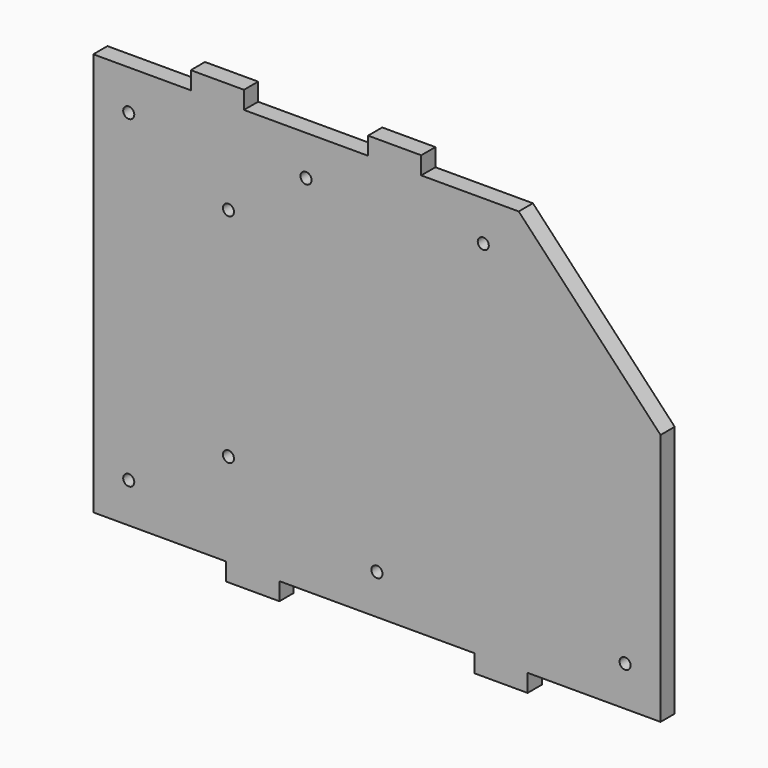
from build123d import *

# Parameters (mm, degrees)
F0_W     = 38.1
F0_H     = 12.7
F1_DEPTH = 12.7
F2_D     = 7.9375
F2_DEPTH = 20.6629
F2_TIP   = 2.3846655818
F3_D     = 7.9375
F3_DEPTH = 17.5133
F3_TIP   = 2.3846655818


with BuildPart() as f1:
    # F0 (on Front) → F1 (new body)
    with BuildSketch(Plane.XZ):
        Polygon((0, 288.925), (0, 0), (95.25, 0), (95.25, 12.7), (133.35, 12.7), (133.35, 0), (273.05, 0), (273.05, 12.7), (311.15, 12.7), (311.15, 0), (406.4, 0), (406.4, 180.975), (304.8, 288.925), (234.95, 288.925), (234.95, 276.225), (196.85, 276.225), (196.85, 288.925), (107.95, 288.925), (107.95, 276.225), (69.85, 276.225), (69.85, 288.925), align=None)
        with Locations((114.3, 6.35)):
            Rectangle(F0_W, F0_H)
        with Locations((114.3, -6.35)):
            Rectangle(F0_W, F0_H)
        with Locations((88.9, 295.275)):
            Rectangle(F0_W, F0_H)
        with Locations((88.9, 282.575)):
            Rectangle(F0_W, F0_H)
        with Locations((292.1, 6.35)):
            Rectangle(F0_W, F0_H)
        with Locations((292.1, -6.35)):
            Rectangle(F0_W, F0_H)
        with Locations((215.9, 295.275)):
            Rectangle(F0_W, F0_H)
        with Locations((215.9, 282.575)):
            Rectangle(F0_W, F0_H)
        Polygon((0, 288.925), (0, 0), (95.25, 0), (95.25, 12.7), (133.35, 12.7), (133.35, 0), (273.05, 0), (273.05, 12.7), (311.15, 12.7), (311.15, 0), (406.4, 0), (406.4, 180.975), (304.8, 288.925), (234.95, 288.925), (234.95, 276.225), (196.85, 276.225), (196.85, 288.925), (107.95, 288.925), (107.95, 276.225), (69.85, 276.225), (69.85, 288.925), align=None)
    extrude(amount=F1_DEPTH)

    # F2
    with Locations(Plane(origin=(0, 0, 0), x_dir=(1, 0, 0), z_dir=(0, 1, 0))):
        with Locations((25.4, -260.35), (152.4, -260.35), (279.4, -260.35), (381, -28.575), (203.2, -28.575), (25.4, -28.575)):
            Hole(F2_D / 2, depth=F2_DEPTH)
            with Locations((0, 0, -(F2_DEPTH + F2_TIP / 2))):  # 118° drill point
                Cone(0, F2_D / 2, F2_TIP, mode=Mode.SUBTRACT)

    # F3
    with Locations(Plane(origin=(0, 0, 0), x_dir=(1, 0, 0), z_dir=(0, 1, 0))):
        with Locations((96.8375, -222.25), (96.8375, -66.675)):
            Hole(F3_D / 2, depth=F3_DEPTH)
            with Locations((0, 0, -(F3_DEPTH + F3_TIP / 2))):  # 118° drill point
                Cone(0, F3_D / 2, F3_TIP, mode=Mode.SUBTRACT)


solid = f1.part
